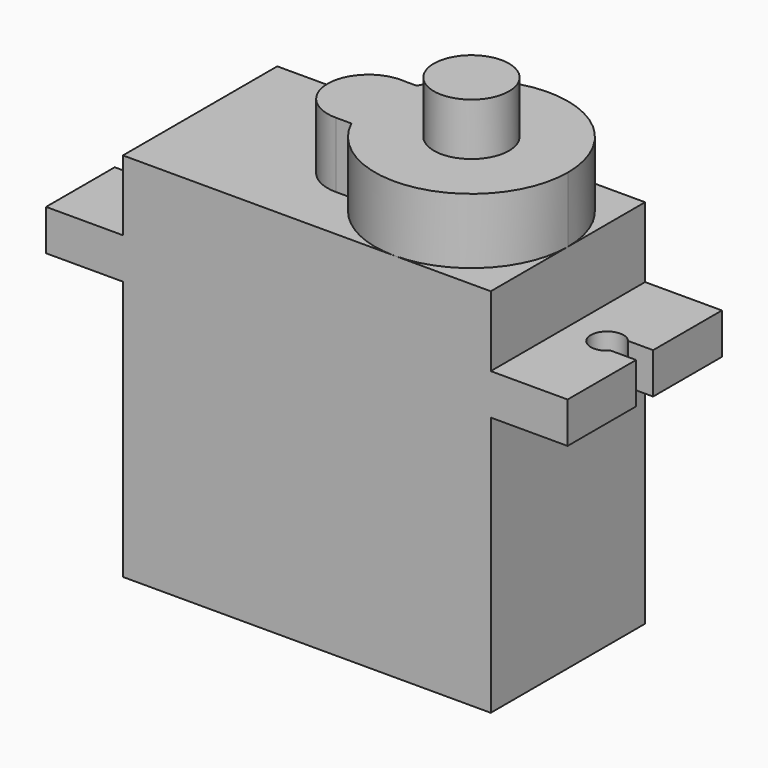
from build123d import *

# Parameters (mm, degrees)
F0_W      = 22.5
F0_H      = 11.8
F1_DEPTH  = 22.7
F2_W      = 11.8
F2_H      = 2.5
F3_DEPTH  = 4.7
F4_W      = 11.8
F4_H      = 2.5
F5_DEPTH  = 4.7
F7_DEPTH  = 2.5
F9_DEPTH  = 2.5
F10_R     = 2.3
F11_DEPTH = 4
F12_DEPTH = 7.2


with BuildPart() as f1:
    # F0 (on Top) → F1 (new body)
    with BuildSketch(Plane.XY):
        Rectangle(F0_W, F0_H)
    extrude(amount=F1_DEPTH)

    # F2 (on face) → F3 (join)
    with BuildSketch(Plane(origin=(-11.25, 0, 0), x_dir=(0, -1, 0), z_dir=(-1, 0, 0))):
        with Locations((0, 17.15)):
            Rectangle(F2_W, F2_H)
    extrude(amount=F3_DEPTH)

    # F4 (on face) → F5 (join)
    with BuildSketch(Plane.YZ.offset(11.25)):
        with Locations((0, 17.15)):
            Rectangle(F4_W, F4_H)
    extrude(amount=F5_DEPTH)

    # F6 (on face) → F7 (cut)
    with BuildSketch(Plane.XY.offset(18.4)):
        with BuildLine():
            Line((-15.95, 0.65), (-15.95, 0))
            Line((-15.95, 0), (-14.65, 0))
            ThreePointArc((-14.65, 0), (-14.5880656181, 0.3464576398), (-14.4099342077, 0.65))
            Line((-14.4099342077, 0.65), (-15.95, 0.65))
        make_face()
        with BuildLine():
            Line((-14.65, 0), (-15.95, 0))
            Line((-15.95, 0), (-15.95, -0.65))
            Line((-15.95, -0.65), (-14.4099342077, -0.65))
            ThreePointArc((-14.4099342077, -0.65), (-14.5880656181, -0.3464576398), (-14.65, 0))
        make_face()
        with BuildLine():
            ThreePointArc((-14.4099342077, 0.65), (-14.5880656181, 0.3464576398), (-14.65, 0))
            ThreePointArc((-14.65, 0), (-14.5880656181, -0.3464576398), (-14.4099342077, -0.65))
            ThreePointArc((-14.4099342077, -0.65), (-13.3035423602, -0.9380656181), (-12.65, 0))
            ThreePointArc((-12.65, 0), (-13.3035423602, 0.9380656181), (-14.4099342077, 0.65))
        make_face()
    extrude(amount=-F7_DEPTH, mode=Mode.SUBTRACT)

    # F8 (on face) → F9 (cut)
    with BuildSketch(Plane.XY.offset(18.4)):
        with BuildLine():
            Line((15.95, -0.6616220634), (15.95, 0))
            Line((15.95, 0), (14.65, 0))
            ThreePointArc((14.65, 0), (14.5853709102, -0.3536682915), (14.3998374792, -0.6616220634))
            Line((14.3998374792, -0.6616220634), (15.95, -0.6616220634))
        make_face()
        with BuildLine():
            Line((14.65, 0), (15.95, 0))
            Line((15.95, 0), (15.95, 0.6383779366))
            Line((15.95, 0.6383779366), (14.4197230736, 0.6383779366))
            ThreePointArc((14.4197230736, 0.6383779366), (14.5906707909, 0.3393205906), (14.65, 0))
        make_face()
        with BuildLine():
            ThreePointArc((14.3998374792, -0.6616220634), (14.5853709102, -0.3536682915), (14.65, 0))
            ThreePointArc((14.65, 0), (14.5906707909, 0.3393205906), (14.4197230736, 0.6383779366))
            ThreePointArc((14.4197230736, 0.6383779366), (12.6501169726, 0.0152948218), (14.3998374792, -0.6616220634))
        make_face()
    extrude(amount=-F9_DEPTH, mode=Mode.SUBTRACT)

    # F10 (on face) → F11 (join)
    with BuildSketch(Plane.XY.offset(22.7)):
        with BuildLine():
            ThreePointArc((0.0058443136, -2.5), (6.6305236137, -5.759362749), (11.25, 0))
            ThreePointArc((11.25, 0), (6.6259878855, 5.7603693385), (0.0019135878, 2.4915801668))
            ThreePointArc((0.0019135878, 2.4915801668), (-0.0329189996, 2.415405358), (-0.0666666667, 2.3387437274))
            ThreePointArc((-0.0666666667, 2.3387437274), (1.1064937799, 1.4215601758), (1.55, 0))
            ThreePointArc((1.55, 0), (1.1064937799, -1.4215601758), (-0.0666666667, -2.3387437274))
            ThreePointArc((-0.0666666667, -2.3387437274), (-0.031015269, -2.4196435017), (0.0058443136, -2.5))
        make_face()
        with Locations((5.35, 0)):
            Circle(F10_R, mode=Mode.SUBTRACT)
        with BuildLine():
            ThreePointArc((-0.0666666667, 2.3387437274), (-0.0329189996, 2.415405358), (0.0019135878, 2.4915801668))
            Line((0.0019135878, 2.4915801668), (-0.7449920185, 2.4915801668))
            ThreePointArc((-0.7449920185, 2.4915801668), (-0.4004898102, 2.4388600926), (-0.0666666667, 2.3387437274))
        make_face()
        with BuildLine():
            Line((-0.95, -2.5), (0.0058443136, -2.5))
            ThreePointArc((0.0058443136, -2.5), (-0.031015269, -2.4196435017), (-0.0666666667, -2.3387437274))
            ThreePointArc((-0.0666666667, -2.3387437274), (-0.5010341429, -2.4593555374), (-0.95, -2.5))
        make_face()
        with BuildLine():
            ThreePointArc((-0.0666666667, -2.3387437274), (-0.55, 0), (-0.0666666667, 2.3387437274))
            ThreePointArc((-0.0666666667, 2.3387437274), (-0.4004898102, 2.4388600926), (-0.7449920185, 2.4915801668))
            Line((-0.7449920185, 2.4915801668), (-1.1550079815, 2.4915801668))
            ThreePointArc((-1.1550079815, 2.4915801668), (-3.4478941548, -0.1025904066), (-0.95, -2.5))
            ThreePointArc((-0.95, -2.5), (-0.5010341429, -2.4593555374), (-0.0666666667, -2.3387437274))
        make_face()
        with BuildLine():
            Line((-1.1550079815, 2.4915801668), (-0.7449920185, 2.4915801668))
            ThreePointArc((-0.7449920185, 2.4915801668), (-0.95, 2.5), (-1.1550079815, 2.4915801668))
        make_face()
        with BuildLine():
            ThreePointArc((5.3500000048, -5.9), (9.5219300107, -4.1719300073), (11.25, 0))
            ThreePointArc((11.25, 0), (9.521930009, 4.171930009), (5.35, 5.9))
            ThreePointArc((5.35, 5.9), (2.1790634652, 4.975455908), (0.0019135878, 2.4915801668))
            ThreePointArc((0.0019135878, 2.4915801668), (-0.0329189996, 2.415405358), (-0.0666666667, 2.3387437274))
            ThreePointArc((-0.0666666667, 2.3387437274), (1.1064937799, 1.4215601758), (1.55, 0))
            ThreePointArc((1.55, 0), (1.1064937799, -1.4215601758), (-0.0666666667, -2.3387437274))
            ThreePointArc((-0.0666666667, -2.3387437274), (-0.031015269, -2.4196435017), (0.0058443136, -2.5))
            ThreePointArc((0.0058443136, -2.5), (2.1829824776, -4.9779513872), (5.3500000048, -5.9))
        make_face()
        with Locations((5.35, 0)):
            Circle(F10_R, mode=Mode.SUBTRACT)
        with BuildLine():
            ThreePointArc((1.55, 0), (1.1064937799, 1.4215601758), (-0.0666666667, 2.3387437274))
            ThreePointArc((-0.0666666667, 2.3387437274), (-0.55, 0), (-0.0666666667, -2.3387437274))
            ThreePointArc((-0.0666666667, -2.3387437274), (1.1064937799, -1.4215601758), (1.55, 0))
        make_face()
    extrude(amount=F11_DEPTH)

    # F12 (add): a face of the model
    f12_faces = [f1.faces().sort_by_distance(p)[0] for p in [
        (5.35, 0, 22.7),
    ]]
    extrude(f12_faces, amount=F12_DEPTH)


solid = f1.part
